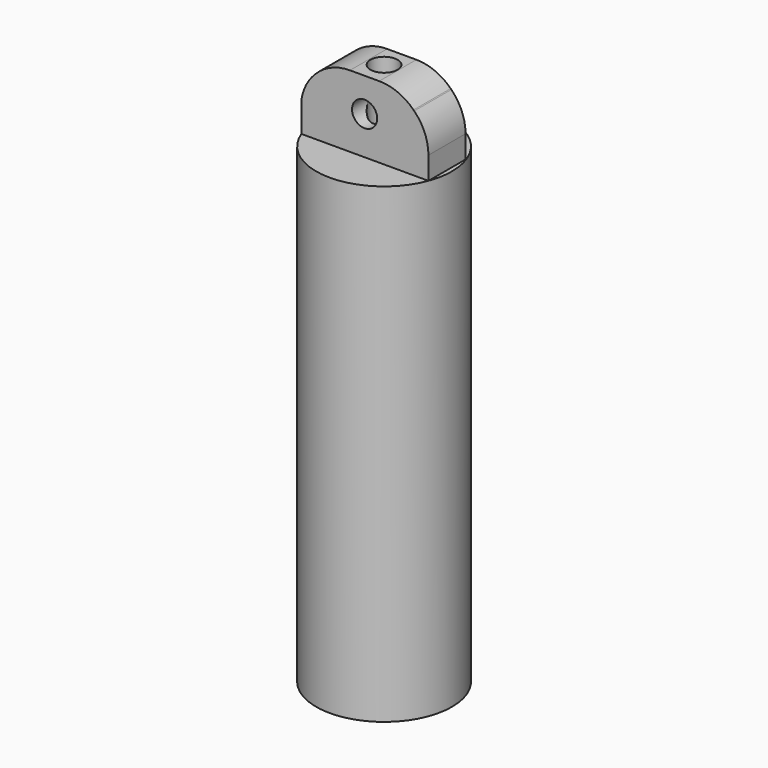
from build123d import *

# Parameters (mm, degrees)
F0_R     = 8.8899932806
F0_R_2   = 1.778
F1_DEPTH = 61.722
F2_R     = 1.778
F3_DEPTH = 9.398
F4_SIZE  = 3.81
F5_R     = 6.35
F7_D     = 3.3


with BuildPart() as f1:
    # F0 (on Top) → F1 (new body)
    with BuildSketch(Plane.XY):
        with Locations((-23.340139538, 17.4584258348)):
            Circle(F0_R)
        with Locations((-23.340139538, 17.4584258348)):
            Circle(F0_R_2, mode=Mode.SUBTRACT)
    extrude(amount=F1_DEPTH)

    # F2 (on face) → F3 (join)
    with BuildSketch(Plane.XY.offset(61.722)):
        with BuildLine():
            Line((-15.0224858004, 20.3939921487), (-31.7314702397, 20.3939921487))
            Line((-31.7314702397, 20.3939921487), (-31.7314702397, 14.5228595208))
            ThreePointArc((-31.7314702397, 14.5228595208), (-31.6952463883, 14.4212939558), (-31.6577932757, 14.3201752346))
            Line((-31.6577932757, 14.3201752346), (-15.0224858004, 14.3201752346))
            Line((-15.0224858004, 14.3201752346), (-15.0224858004, 20.3939921487))
        make_face()
        with Locations((-23.340139538, 17.4584258348)):
            Circle(F2_R, mode=Mode.SUBTRACT)
    extrude(amount=F3_DEPTH)

    # F4
    f4_edges = [f1.edges().sort_by_distance(p)[0] for p in [
        (-15.022486, 17.357084, 71.12),
        (-31.73147, 17.458426, 71.12),
    ]]
    chamfer(f4_edges, length=F4_SIZE)

    # F5
    f5_edges = [f1.edges().sort_by_distance(p)[0] for p in [
        (-27.92147, 17.357084, 71.12),
        (-18.832486, 17.357084, 71.12),
        (-15.022486, 17.357084, 67.31),
        (-31.73147, 17.458426, 67.31),
    ]]
    fillet(f5_edges, radius=F5_R)

    # F7 (through all)
    with Locations(Plane.XZ.offset(-14.3201752346)):
        with Locations((-23.3769780201, 66.7147636414)):
            Hole(F7_D / 2)


solid = f1.part
